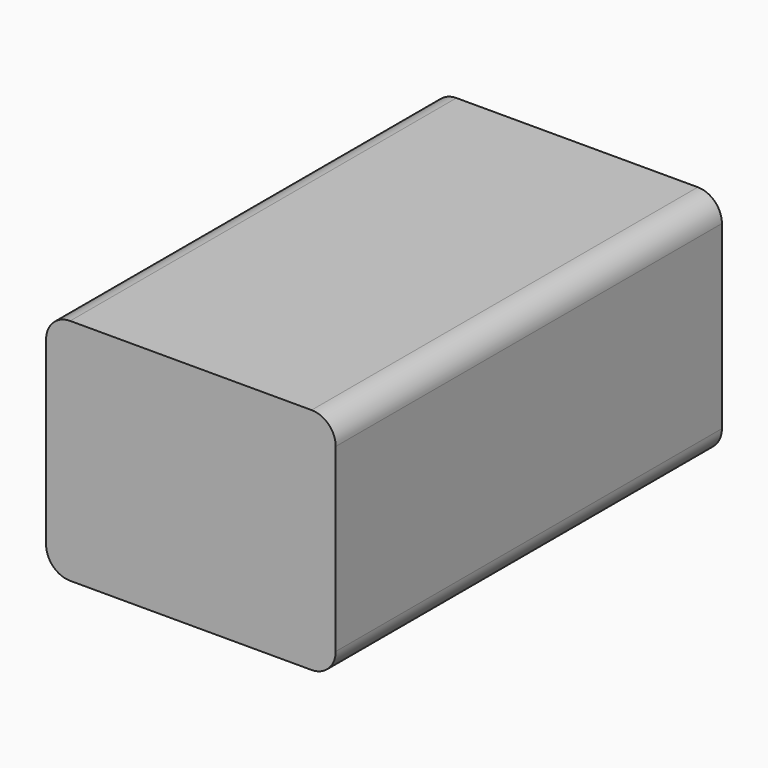
from build123d import *

# Parameters (mm, degrees)
F1_DEPTH = 63.5


with BuildPart() as f1:
    # F0 (on Front) → F1 (new body, symmetric)
    with BuildSketch(Plane.XZ):
        with BuildLine():
            Line((-69.85, 0), (-6.35, 0))
            ThreePointArc((-6.35, 0), (-1.859872, 1.859872), (0, 6.35))
            Line((0, 6.35), (0, 53.844526))
            ThreePointArc((0, 53.844526), (-1.859872, 58.334654), (-6.35, 60.194526))
            Line((-6.35, 60.194526), (-69.85, 60.194526))
            ThreePointArc((-69.85, 60.194526), (-74.340128, 58.334654), (-76.2, 53.844526))
            Line((-76.2, 53.844526), (-76.2, 6.35))
            ThreePointArc((-76.2, 6.35), (-74.340128, 1.859872), (-69.85, 0))
        make_face()
    extrude(amount=F1_DEPTH, both=True)


solid = f1.part
